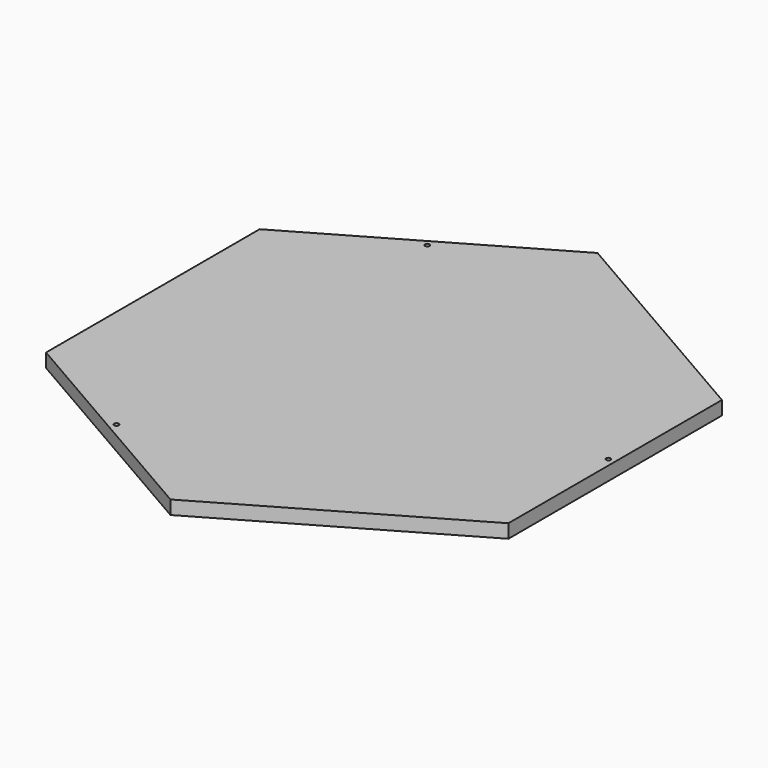
from build123d import *

# Parameters (mm, degrees)
F1_DEPTH = 6
F2_R     = 1
F3_DEPTH = 25


with BuildPart() as f1:
    # F0 (on Top) → F1 (new body)
    with BuildSketch(Plane.XY):
        Polygon((0, -117), (101.324972, -58.5), (101.324972, 58.5), (0, 117), (-101.324972, 58.5), (-101.324972, -58.5), align=None)
    extrude(amount=F1_DEPTH)

    # F2 (on face) → F3 (cut)
    with BuildSketch(Plane.XY.offset(6)):
        with Locations((-49.162486, -85.151924)):
            Circle(F2_R)
        with Locations((-49.162486, 85.151924)):
            Circle(F2_R)
        with Locations((98.324972, 0)):
            Circle(F2_R)
    extrude(amount=-F3_DEPTH, mode=Mode.SUBTRACT)


solid = f1.part
